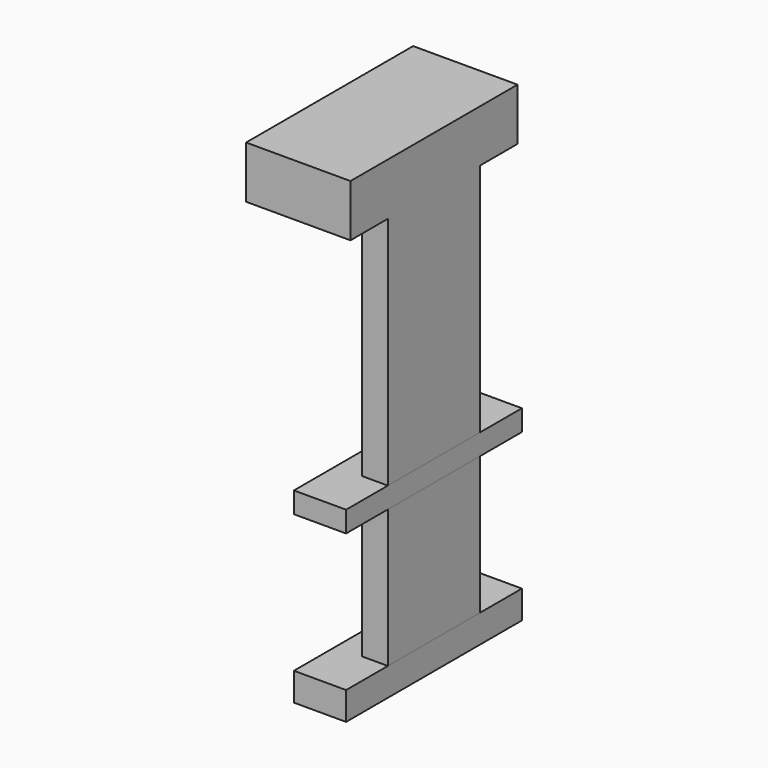
from build123d import *

# Parameters (mm, degrees)
F1_DEPTH = 25.4
F0_W     = 28.07054
F0_H     = 57.15
F0_H_2   = 33.528
F2_DEPTH = 6.35
F3_DEPTH = 12.7


with BuildPart() as f1:
    # F0 (on Right) → F1 (new body)
    with BuildSketch(Plane.YZ):
        Polygon((29.136367, 73.999954), (-21.663633, 73.999954), (-21.663633, 61.299954), (-10.298899, 61.299954), (17.771641, 61.299954), (29.136376, 61.299954), align=None)
    extrude(amount=-F1_DEPTH)

    # F0 (on Right) → F2 (join)
    with BuildSketch(Plane.YZ):
        with Locations((3.736371, 32.724954)):
            Rectangle(F0_W, F0_H)
        with Locations((3.736371, -17.713681)):
            Rectangle(F0_W, F0_H_2)
    extrude(amount=-F2_DEPTH)


with BuildPart() as f3:
    # F0 (on Right) → F3 (new body)
    with BuildSketch(Plane.YZ):
        Polygon((17.771641, 4.149954), (-10.298899, 4.149954), (-22.998899, 4.149954), (-22.998899, -0.949681), (-10.298899, -0.949681), (17.771641, -0.949681), (30.471641, -0.949681), (30.471641, 4.149954), align=None)
        Polygon((17.771641, -34.477681), (-10.298899, -34.477681), (-22.998899, -34.477681), (-22.998899, -41.305353), (30.471641, -41.305353), (30.471641, -34.477681), align=None)
    extrude(amount=-F3_DEPTH)


solid = Compound([f1.part, f3.part])
